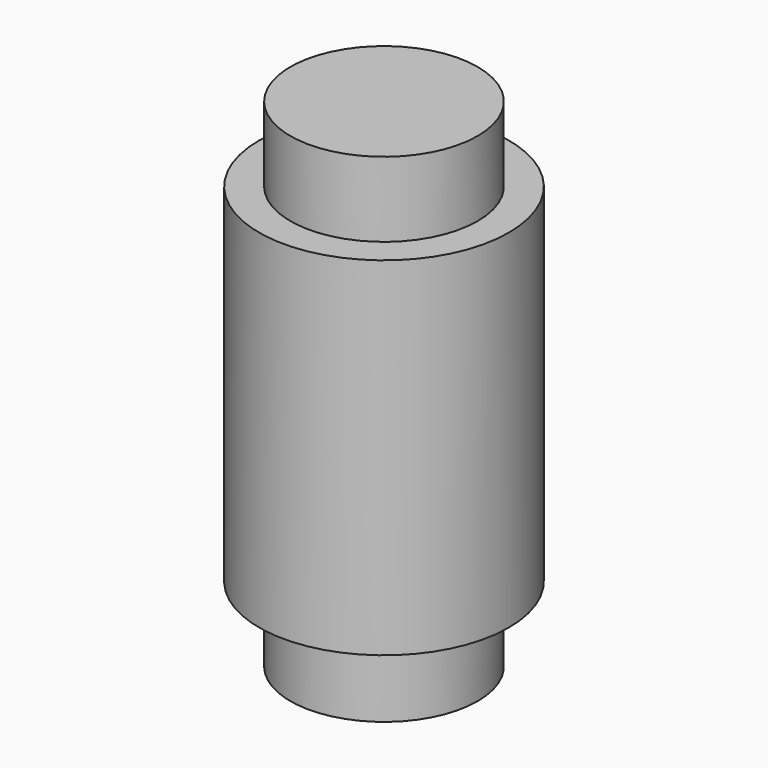
from build123d import *

# Parameters (mm, degrees)
F0_R     = 10
F1_DEPTH = 13.925
F2_R     = 7.5
F3_DEPTH = 6


with BuildPart() as f1:
    # F0 (on Top) → F1 (new body, symmetric)
    with BuildSketch(Plane.XY):
        with Locations((-54.4874072075, -46.7285439372)):
            Circle(F0_R)
    extrude(amount=F1_DEPTH, both=True)

    # F2 (on face) → F3 (join)
    with BuildSketch(Plane.XY.offset(13.925)):
        with Locations((-54.4874072075, -46.7285439372)):
            Circle(F2_R)
    extrude(amount=F3_DEPTH)

    # F4: F1 across plane


with BuildPart() as f1_1:
    add(f1.part)
    add(f1.part.mirror(Plane.XY))


solid = f1_1.part
